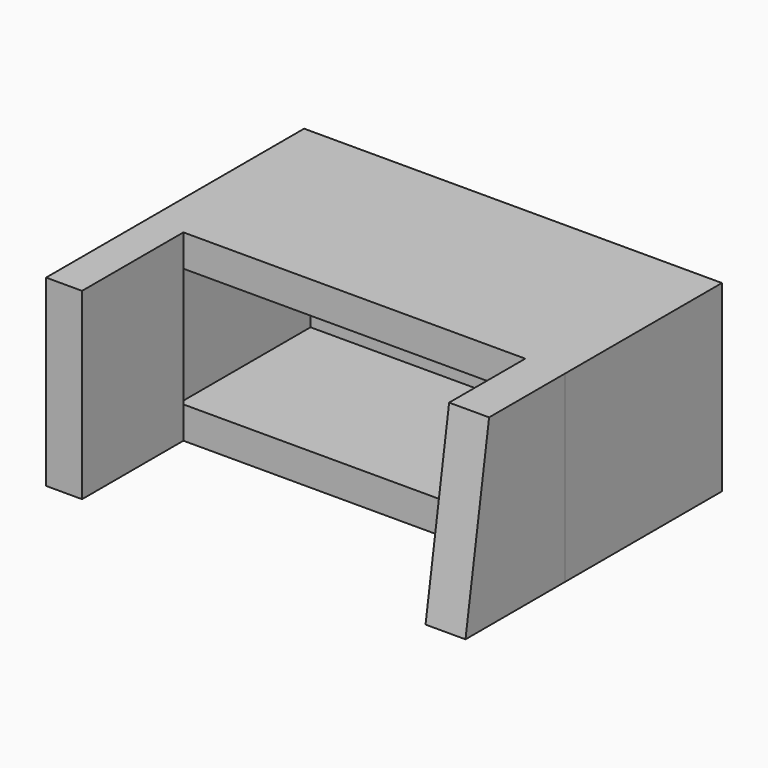
from build123d import *

# Parameters (mm, degrees)
F0_W     = 66.382667
F0_H     = 29.143608
F1_DEPTH = 31.115
F2_T     = -5.08
F4_DEPTH = 6.35
F5_W     = 20.129028
F5_H     = 29.143608
F6_DEPTH = 5.715


with BuildPart() as f1:
    # F0 (on Front) → F1 (new body)
    with BuildSketch(Plane.XZ):
        with Locations((-4.587421, 4.452495)):
            Rectangle(F0_W, F0_H)
    extrude(amount=F1_DEPTH)

    # F2
    f2_openings = [f1.faces().sort_by_distance(p)[0] for p in [
        (-4.58742, -31.115, 4.452495),
    ]]
    offset(amount=F2_T, openings=f2_openings)

    # F3 (on face) → F4 (join)
    with BuildSketch(Plane.YZ.offset(28.603913)):
        Polygon((-50.926875, -10.119309), (-31.115, -10.119309), (-31.115, 19.024299), (-46.237689, 19.024299), align=None)
    extrude(amount=-F4_DEPTH)

    # F5 (on face) → F6 (join)
    with BuildSketch(Plane(origin=(-37.778754, 0, 0), x_dir=(0, -1, 0), z_dir=(-1, 0, 0))):
        with Locations((41.179514, 4.452495)):
            Rectangle(F5_W, F5_H)
    extrude(amount=-F6_DEPTH)


solid = f1.part
